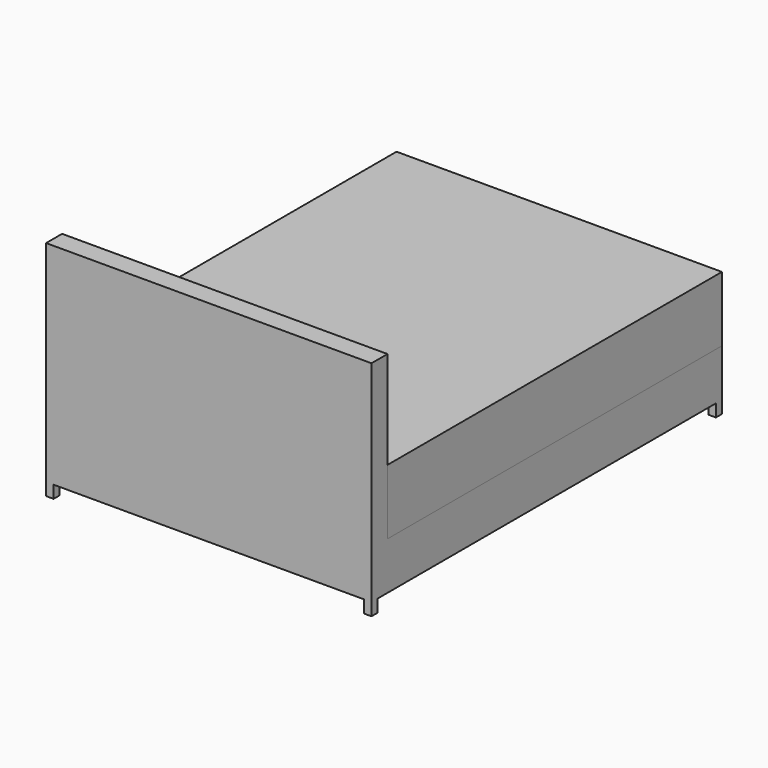
from build123d import *

# Parameters (mm, degrees)
F1_DEPTH = 825.5
F2_W     = 1574.8
F2_H     = 63.5
F3_DEPTH = 2222.501
F4_W     = 1651
F4_H     = 2120.9
F5_DEPTH = 330.2


with BuildPart() as f1:
    # F0 (on Right) → F1 (new body, symmetric)
    with BuildSketch(Plane.YZ):
        Polygon((-38.1, 0), (0, 0), (0, 304.8), (-2120.9, 304.8), (-2120.9, 1130.3), (-2222.5, 1130.3), (-2222.5, 0), (-2184.4, 0), (-2184.4, 63.5), (-38.1, 63.5), align=None)
    extrude(amount=F1_DEPTH, both=True)

    # F2 (on face) → F3 (cut, through all)
    with BuildSketch(Plane(origin=(0, 0, 0), x_dir=(-1, 0, 0), z_dir=(0, 1, 0))):
        with Locations((0, 31.75)):
            Rectangle(F2_W, F2_H)
    extrude(amount=-F3_DEPTH, mode=Mode.SUBTRACT)


with BuildPart() as f5:
    # F4 (on face) → F5 (new body)
    with BuildSketch(Plane.XY.offset(304.8)):
        with Locations((0, -1060.45)):
            Rectangle(F4_W, F4_H)
    extrude(amount=F5_DEPTH)


solid = Compound([f1.part, f5.part])
